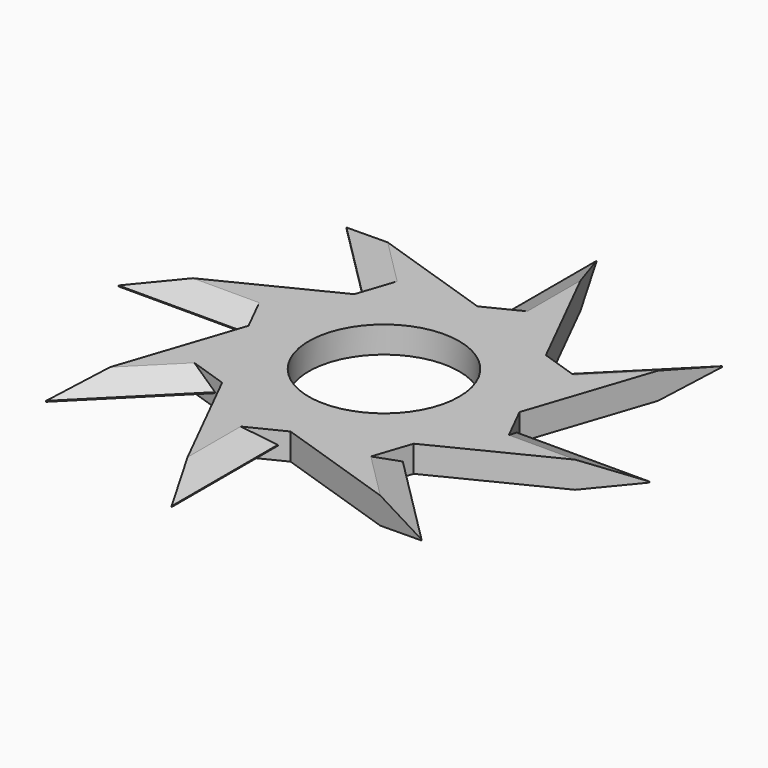
from build123d import *

# Parameters (mm, degrees)
F0_R       = 8.5
F1_DEPTH   = 3
F2_SIZE2   = 3
F2_SIZE    = 1.45
F2_2_SIZE2 = 3
F2_2_SIZE  = 1.45
F2_3_SIZE2 = 3
F2_3_SIZE  = 1.45
F2_4_SIZE2 = 3
F2_4_SIZE  = 1.45
F2_5_SIZE2 = 3
F2_5_SIZE  = 1.45
F2_6_SIZE2 = 3
F2_6_SIZE  = 1.45
F2_7_SIZE2 = 3
F2_7_SIZE  = 1.45
F2_8_SIZE2 = 3
F2_8_SIZE  = 1.45
F3_SIZE2   = 1.45
F3_SIZE    = 3


with BuildPart() as f1:
    # F0 (on Top) → F1 (new body)
    with BuildSketch(Plane.XY):
        Polygon((9.5147186258, 10.9705627485), (-1.0294372515, 14.4852813742), (-10.9705627485, 9.5147186258), (-14.4852813742, -1.0294372515), (-9.5147186258, -10.9705627485), (1.0294372515, -14.4852813742), (10.9705627485, -9.5147186258), (14.4852813742, 1.0294372515), align=None)
        Circle(F0_R, mode=Mode.SUBTRACT)
        Polygon((-9.5147186258, -10.9705627485), (-14.4852813742, -1.0294372515), (-21.2132034356, -21.2132034356), (-10.6066017178, -10.6066017178), align=None)
        Polygon((1.0294372515, -14.4852813742), (-9.5147186258, -10.9705627485), (0, -30), (0, -15), align=None)
        Polygon((10.6066017178, -10.6066017178), (10.9705627485, -9.5147186258), (1.0294372515, -14.4852813742), (21.2132034356, -21.2132034356), align=None)
        Polygon((15, 0), (14.4852813742, 1.0294372515), (10.9705627485, -9.5147186258), (30, 0), align=None)
        Polygon((10.6066017178, 10.6066017178), (9.5147186258, 10.9705627485), (14.4852813742, 1.0294372515), (21.2132034356, 21.2132034356), align=None)
        Polygon((0, 30), (0, 15), (-1.0294372515, 14.4852813742), (9.5147186258, 10.9705627485), align=None)
        Polygon((-10.9705627485, 9.5147186258), (-1.0294372515, 14.4852813742), (-21.2132034356, 21.2132034356), (-10.6066017178, 10.6066017178), align=None)
        Polygon((-14.4852813742, -1.0294372515), (-10.9705627485, 9.5147186258), (-30, 0), (-15, 0), align=None)
    extrude(amount=F1_DEPTH)

    # F2
    f2_edges = [f1.edges().sort_by_distance(p)[0] for p in [
        (-15.909903, 15.909903, 3),
    ]]
    f2_side = f1.faces().sort_by_distance((-15.909903, 15.909903, 1.5))[0]
    chamfer(f2_edges, length=F2_SIZE, length2=F2_SIZE2, reference=f2_side)

    # F2#2
    f2_2_edges = [f1.edges().sort_by_distance(p)[0] for p in [
        (-22.5, 0, 3),
    ]]
    f2_2_side = f1.faces().sort_by_distance((-22.5, 0, 1.5))[0]
    chamfer(f2_2_edges, length=F2_2_SIZE, length2=F2_2_SIZE2, reference=f2_2_side)

    # F2#3
    f2_3_edges = [f1.edges().sort_by_distance(p)[0] for p in [
        (-15.909903, -15.909903, 3),
    ]]
    f2_3_side = f1.faces().sort_by_distance((-15.909903, -15.909903, 1.5))[0]
    chamfer(f2_3_edges, length=F2_3_SIZE, length2=F2_3_SIZE2, reference=f2_3_side)

    # F2#4
    f2_4_edges = [f1.edges().sort_by_distance(p)[0] for p in [
        (0, -22.5, 3),
    ]]
    f2_4_side = f1.faces().sort_by_distance((0, -22.5, 1.5))[0]
    chamfer(f2_4_edges, length=F2_4_SIZE, length2=F2_4_SIZE2, reference=f2_4_side)

    # F2#5
    f2_5_edges = [f1.edges().sort_by_distance(p)[0] for p in [
        (15.909903, -15.909903, 3),
    ]]
    f2_5_side = f1.faces().sort_by_distance((15.909903, -15.909903, 1.5))[0]
    chamfer(f2_5_edges, length=F2_5_SIZE, length2=F2_5_SIZE2, reference=f2_5_side)

    # F2#6
    f2_6_edges = [f1.edges().sort_by_distance(p)[0] for p in [
        (22.5, 0, 3),
    ]]
    f2_6_side = f1.faces().sort_by_distance((22.5, 0, 1.5))[0]
    chamfer(f2_6_edges, length=F2_6_SIZE, length2=F2_6_SIZE2, reference=f2_6_side)

    # F2#7
    f2_7_edges = [f1.edges().sort_by_distance(p)[0] for p in [
        (15.909903, 15.909903, 3),
    ]]
    f2_7_side = f1.faces().sort_by_distance((15.909903, 15.909903, 1.5))[0]
    chamfer(f2_7_edges, length=F2_7_SIZE, length2=F2_7_SIZE2, reference=f2_7_side)

    # F2#8
    f2_8_edges = [f1.edges().sort_by_distance(p)[0] for p in [
        (0, 22.5, 3),
    ]]
    f2_8_side = f1.faces().sort_by_distance((0, 22.5, 1.5))[0]
    chamfer(f2_8_edges, length=F2_8_SIZE, length2=F2_8_SIZE2, reference=f2_8_side)

    # F3
    f3_edges = [f1.edges().sort_by_distance(p)[0] for p in [
        (0, -22.5, 0),
        (15.909903, -15.909903, 0),
        (22.5, 0, 0),
        (15.909903, 15.909903, 0),
        (0, 22.5, 0),
        (-15.909903, 15.909903, 0),
        (-22.5, 0, 0),
        (-15.909903, -15.909903, 0),
    ]]
    f3_side = f1.faces().sort_by_distance((-16.509903, -15.309903, 0))[0]
    chamfer(f3_edges, length=F3_SIZE, length2=F3_SIZE2, reference=f3_side)


solid = f1.part
